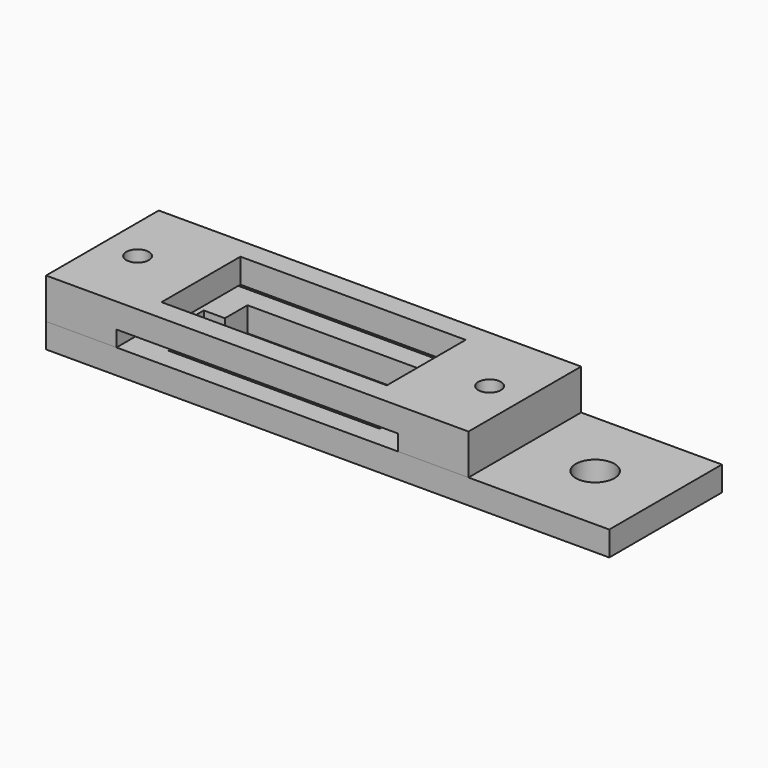
from build123d import *

# Parameters (mm, degrees)
F0_W     = 80
F0_H     = 20
F0_R     = 2.75
F1_DEPTH = 3.5
F3_W     = 60
F3_H     = 20
F3_W_2   = 32
F3_H_2   = 14
F4_DEPTH = 3.5
F5_W     = 10
F5_H     = 20
F6_DEPTH = 5.75
F7_R     = 1.6
F8_DEPTH = 9.251
F9_DEPTH = 2.3


with BuildPart() as f1:
    # F0 (on Top) → F1 (new body)
    with BuildSketch(Plane.XY):
        with Locations((40, 10)):
            Rectangle(F0_W, F0_H)
        Polygon((15, 13), (15, 17), (45, 17), (45, 13), (48, 13), (48, 7), (45, 7), (45, 3), (15, 3), (15, 7), (12, 7), (12, 13), align=None, mode=Mode.SUBTRACT)
        with Locations((70, 10)):
            Circle(F0_R, mode=Mode.SUBTRACT)
    extrude(amount=F1_DEPTH)


with BuildPart() as f4:
    # F3 (on offset) → F4 (new body)
    with BuildSketch(Plane.XY.offset(5.75)):
        with Locations((30, 10)):
            Rectangle(F3_W, F3_H)
        with Locations((30, 10)):
            Rectangle(F3_W_2, F3_H_2, mode=Mode.SUBTRACT)
    extrude(amount=F4_DEPTH)

    # F5 (on face) → F6 (join, through all)
    with BuildSketch(Plane.XY.offset(9.25)):
        with Locations((5, 10)):
            Rectangle(F5_W, F5_H)
        with Locations((55, 10)):
            Rectangle(F5_W, F5_H)
    extrude(amount=-F6_DEPTH)


with BuildPart() as f8_tool:
    # F7 (on face) → F8 (new body, through all)
    with BuildSketch(Plane.XY):
        with Locations((5, 10)):
            Circle(F7_R)
        with Locations((55, 10)):
            Circle(F7_R)
    extrude(amount=F8_DEPTH)


with BuildPart() as f1_1:
    add(f1.part)

    # F8: cut by f8_tool
    add(f8_tool.part, mode=Mode.SUBTRACT)

    # F7 (on face) → F9 (cut)
    with BuildSketch(Plane.XY):
        Polygon((2.2, 11.6165807537), (2.2, 8.3834192463), (5, 6.7668384925), (7.8, 8.3834192463), (7.8, 11.6165807537), (5, 13.2331615075), align=None)
        with Locations((5, 10)):
            Circle(F7_R, mode=Mode.SUBTRACT)
        Polygon((55, 6.7668384925), (57.8, 8.3834192463), (57.8, 11.6165807537), (55, 13.2331615075), (52.2, 11.6165807537), (52.2, 8.3834192463), align=None)
        with Locations((55, 10)):
            Circle(F7_R, mode=Mode.SUBTRACT)
    extrude(amount=F9_DEPTH, mode=Mode.SUBTRACT)


with BuildPart() as f4_1:
    add(f4.part)

    # F8: cut by f8_tool
    add(f8_tool.part, mode=Mode.SUBTRACT)


solid = Compound([f1_1.part, f4_1.part])
